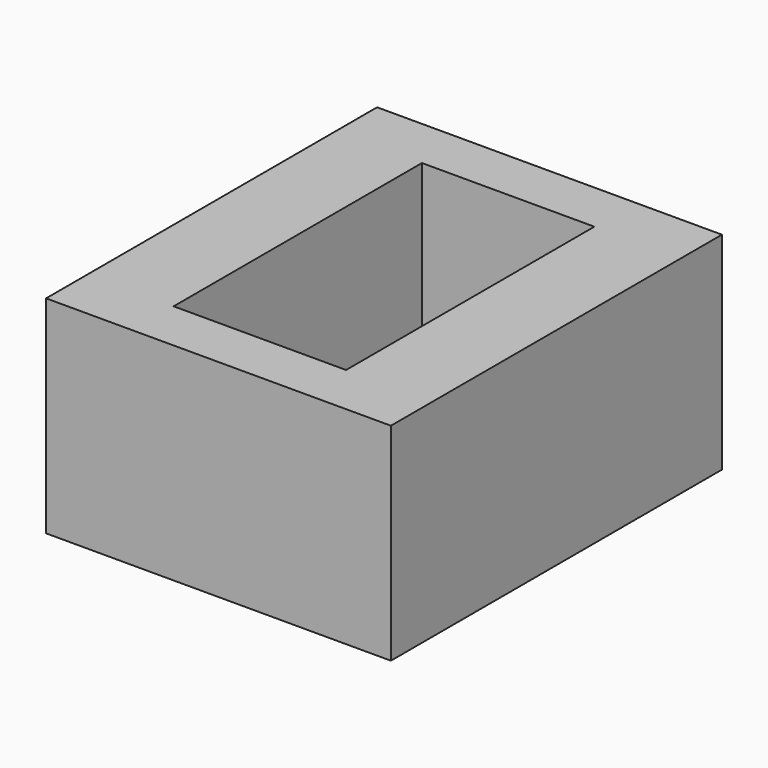
from build123d import *

# Parameters (mm, degrees)
F0_W     = 5
F0_H     = 6
F0_W_2   = 2.5
F0_H_2   = 4.5
F1_DEPTH = 3


with BuildPart() as f1:
    # F0 (on Top) → F1 (new body)
    with BuildSketch(Plane.XY):
        Rectangle(F0_W, F0_H)
        Rectangle(F0_W_2, F0_H_2, mode=Mode.SUBTRACT)
        Rectangle(F0_W, F0_H)
        Rectangle(F0_W_2, F0_H_2, mode=Mode.SUBTRACT)
    extrude(amount=F1_DEPTH)


solid = f1.part
